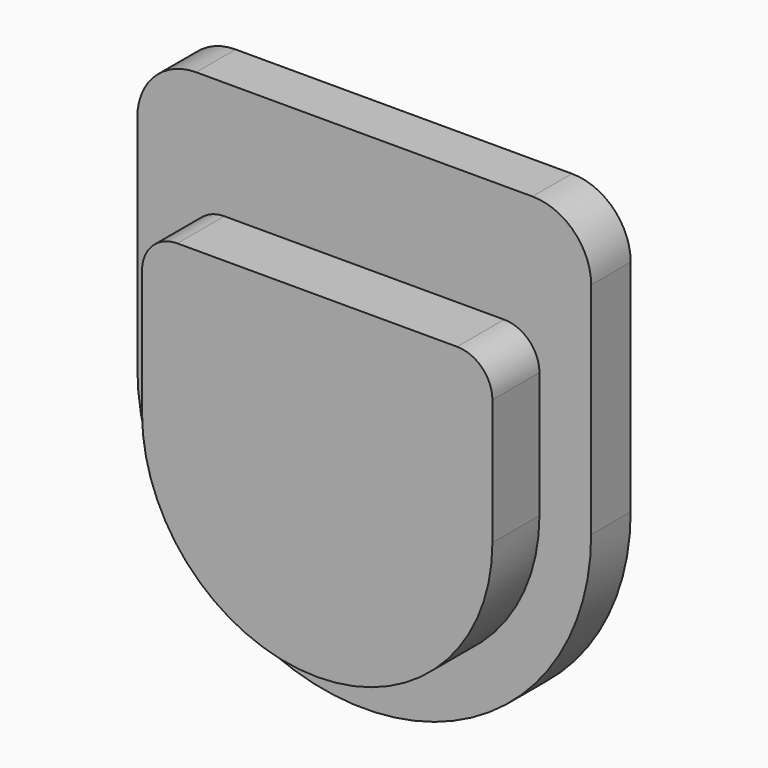
from build123d import *

# Parameters (mm, degrees)
F1_DEPTH = 4.2
F3_DEPTH = 5
F4_R     = 5
F5_R     = 3


with BuildPart() as f1:
    # F0 (on Front) → F1 (new body)
    with BuildSketch(Plane.XZ):
        with BuildLine():
            Line((-19.3, 13.7), (-19.3, 0))
            ThreePointArc((-19.3, 0), (0, -19.3), (19.3, 0))
            Line((19.3, 0), (19.3, 13.7))
            Line((19.3, 13.7), (19.3, 23.7))
            Line((19.3, 23.7), (-19.3, 23.7))
            Line((-19.3, 23.7), (-19.3, 13.7))
        make_face()
    extrude(amount=-F1_DEPTH)

    # F2 (on Front) → F3 (join)
    with BuildSketch(Plane.XZ):
        with BuildLine():
            Line((-14.9, 13.7), (-14.9, 0))
            ThreePointArc((-14.9, 0), (0, -14.9), (14.9, 0))
            Line((14.9, 0), (14.9, 13.7))
            Line((14.9, 13.7), (-14.9, 13.7))
        make_face()
    extrude(amount=F3_DEPTH)

    # F4
    f4_edges = [f1.edges().sort_by_distance(p)[0] for p in [
        (-19.3, 2.1, 23.7),
        (19.3, 2.1, 23.7),
    ]]
    fillet(f4_edges, radius=F4_R)

    # F5
    f5_edges = [f1.edges().sort_by_distance(p)[0] for p in [
        (-14.9, -2.5, 13.7),
        (14.9, -2.5, 13.7),
    ]]
    fillet(f5_edges, radius=F5_R)


solid = f1.part
